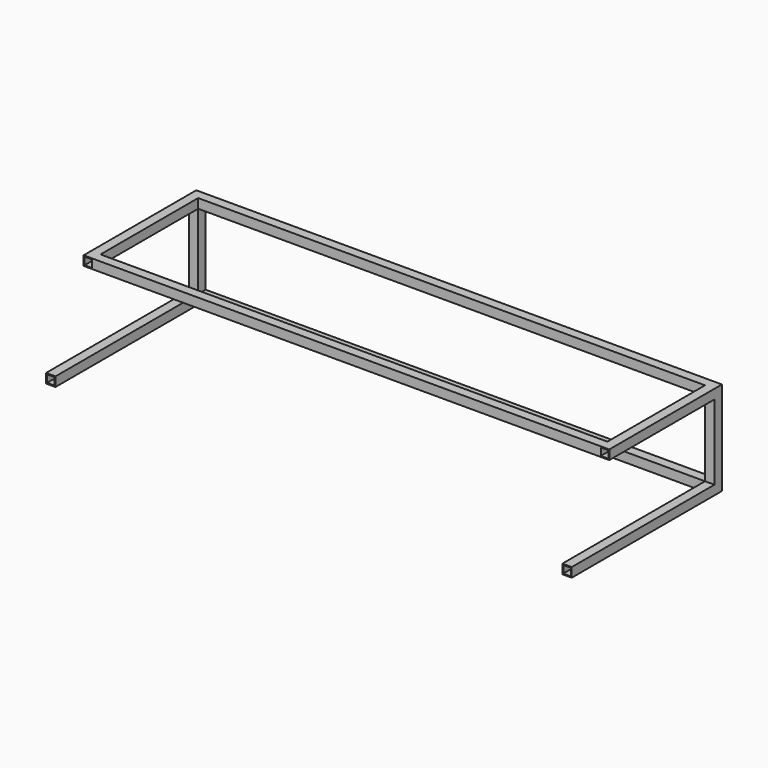
from build123d import *

# Parameters (mm, degrees)
F1_DEPTH  = 12.7
F2_W      = 12.7
F2_H      = 12.7
F3_DEPTH  = 114.3
F4_W      = 12.7
F4_H      = 12.7
F5_DEPTH  = 177.8
F6_W      = 12.7
F6_H      = 12.7
F7_DEPTH  = 177.8
F8_W      = 12.7
F8_H      = 12.7
F9_DEPTH  = 685.8
F10_W     = 12.7
F10_H     = 12.7
F11_DEPTH = 685.8
F12_W     = 10.16
F12_H     = 10.16
F13_DEPTH = 254.001
F14_W     = 10.16
F14_H     = 10.16
F15_DEPTH = 190.501
F16_W     = 10.16
F16_H     = 10.16
F17_DEPTH = 254.001


with BuildPart() as f1:
    # F0 (on Top) → F1 (new body)
    with BuildSketch(Plane.XY):
        Polygon((0, 254), (0, 0), (12.7, 0), (12.7, 241.3), (698.5, 241.3), (698.5, 0), (711.2, 0), (711.2, 254), align=None)
    extrude(amount=F1_DEPTH)

    # F2 (on face) → F3 (join)
    with BuildSketch(Plane.XY.offset(12.7)):
        with Locations((6.35, 247.65)):
            Rectangle(F2_W, F2_H)
        with Locations((704.85, 247.65)):
            Rectangle(F2_W, F2_H)
    extrude(amount=F3_DEPTH)

    # F4 (on face) → F5 (join)
    with BuildSketch(Plane.XZ.offset(-241.3)):
        with Locations((6.35, 120.65)):
            Rectangle(F4_W, F4_H)
    extrude(amount=F5_DEPTH)

    # F6 (on face) → F7 (join)
    with BuildSketch(Plane.XZ.offset(-241.3)):
        with Locations((704.85, 120.65)):
            Rectangle(F6_W, F6_H)
    extrude(amount=F7_DEPTH)

    # F8 (on face) → F9 (join, through all)
    with BuildSketch(Plane.YZ.offset(12.7)):
        with Locations((247.65, 120.65)):
            Rectangle(F8_W, F8_H)
    extrude(amount=F9_DEPTH)

    # F10 (on face) → F11 (join, through all)
    with BuildSketch(Plane.YZ.offset(12.7)):
        with Locations((69.85, 120.65)):
            Rectangle(F10_W, F10_H)
    extrude(amount=F11_DEPTH)

    # F12 (on face) → F13 (cut, through all)
    with BuildSketch(Plane.XZ):
        with Locations((704.85, 6.35)):
            Rectangle(F12_W, F12_H)
    extrude(amount=-F13_DEPTH, mode=Mode.SUBTRACT)

    # F14 (on face) → F15 (cut, through all)
    with BuildSketch(Plane.XZ.offset(-63.5)):
        with Locations((704.85, 120.65)):
            Rectangle(F14_W, F14_H)
        with Locations((6.35, 120.65)):
            Rectangle(F14_W, F14_H)
    extrude(amount=-F15_DEPTH, mode=Mode.SUBTRACT)

    # F16 (on face) → F17 (cut, through all)
    with BuildSketch(Plane.XZ):
        with Locations((6.35, 6.35)):
            Rectangle(F16_W, F16_H)
    extrude(amount=-F17_DEPTH, mode=Mode.SUBTRACT)


solid = f1.part
